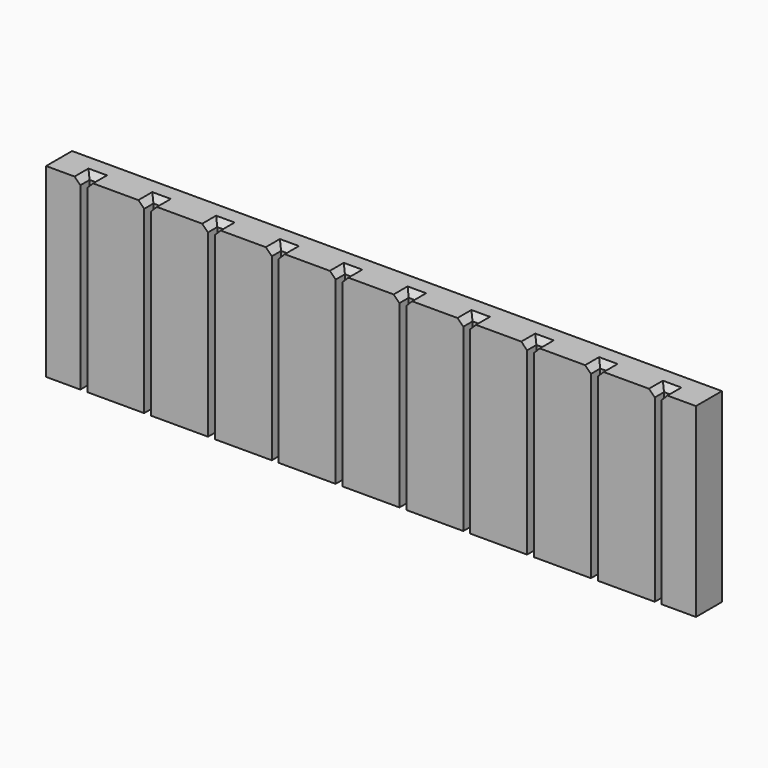
from build123d import *

# Parameters (mm, degrees)
SKETCH_W          = 177.8
SKETCH_H          = 50.8
PAD_DEPTH         = 8.89
CYLINDER_R        = 6.1976
CYLINDER_DEPTH    = 6.1976
CYLINDER001_R     = 6.1976
CYLINDER001_DEPTH = 6.1976
BOX_W             = 1.8923
BOX_H             = 50.8
BOX_DEPTH         = 3.175
BOX001_W          = 1.8923
BOX001_H          = 50.8
BOX001_DEPTH      = 3.175
BOX002_W          = 1.8923
BOX002_H          = 50.8
BOX002_DEPTH      = 3.175
BOX003_W          = 1.8923
BOX003_H          = 50.8
BOX003_DEPTH      = 3.175
BOX004_W          = 1.8923
BOX004_H          = 50.8
BOX004_DEPTH      = 3.175
BOX005_W          = 1.8923
BOX005_H          = 50.8
BOX005_DEPTH      = 3.175
BOX006_W          = 1.8923
BOX006_H          = 50.8
BOX006_DEPTH      = 3.175
BOX007_W          = 1.8923
BOX007_H          = 50.8
BOX007_DEPTH      = 3.175
BOX008_W          = 1.8923
BOX008_H          = 50.8
BOX008_DEPTH      = 3.175
BOX009_W          = 1.8923
BOX009_H          = 50.8
BOX009_DEPTH      = 3.175
CHAMFER_SIZE      = 1.5875
CHAMFER001_SIZE   = 1.5875
CHAMFER002_SIZE   = 1.5875
CHAMFER003_SIZE   = 1.65608
CHAMFER004_SIZE   = 1.5875
CHAMFER005_SIZE   = 1.5875
CHAMFER006_SIZE   = 1.5875
CHAMFER007_SIZE   = 1.5875
CHAMFER008_SIZE   = 1.5875
CHAMFER009_SIZE   = 1.5875


with BuildPart() as part:
    # Sketch → Pad (new body)
    with BuildSketch(Plane.XZ):
        Rectangle(SKETCH_W, SKETCH_H)
    extrude(amount=PAD_DEPTH)

    # Cylinder → Cylinder (join)
    with BuildSketch(Plane(origin=(50.8, 0, 0), x_dir=(1, 0, 0), z_dir=(0, 1, 0))):
        Circle(CYLINDER_R)
    extrude(amount=CYLINDER_DEPTH)

    # Cylinder001 → Cylinder001 (join)
    with BuildSketch(Plane(origin=(-50.8, 0, 0), x_dir=(1, 0, 0), z_dir=(0, 1, 0))):
        Circle(CYLINDER001_R)
    extrude(amount=CYLINDER001_DEPTH)

    # Box → Box (cut)
    with BuildSketch(Plane(origin=(-9.6774, -5.715, -25.4), x_dir=(1, 0, 0), z_dir=(0, -1, 0))):
        with Locations((0.94615, 25.4)):
            Rectangle(BOX_W, BOX_H)
    extrude(amount=BOX_DEPTH, mode=Mode.SUBTRACT)

    # Box001 → Box001 (cut)
    with BuildSketch(Plane(origin=(-27.1399, -5.715, -25.4), x_dir=(1, 0, 0), z_dir=(0, -1, 0))):
        with Locations((0.94615, 25.4)):
            Rectangle(BOX001_W, BOX001_H)
    extrude(amount=BOX001_DEPTH, mode=Mode.SUBTRACT)

    # Box002 → Box002 (cut)
    with BuildSketch(Plane(origin=(-44.6024, -5.715, -25.4), x_dir=(1, 0, 0), z_dir=(0, -1, 0))):
        with Locations((0.94615, 25.4)):
            Rectangle(BOX002_W, BOX002_H)
    extrude(amount=BOX002_DEPTH, mode=Mode.SUBTRACT)

    # Box003 → Box003 (cut)
    with BuildSketch(Plane(origin=(-62.0649, -5.715, -25.4), x_dir=(1, 0, 0), z_dir=(0, -1, 0))):
        with Locations((0.94615, 25.4)):
            Rectangle(BOX003_W, BOX003_H)
    extrude(amount=BOX003_DEPTH, mode=Mode.SUBTRACT)

    # Box004 → Box004 (cut)
    with BuildSketch(Plane(origin=(-79.5274, -5.715, -25.4), x_dir=(1, 0, 0), z_dir=(0, -1, 0))):
        with Locations((0.94615, 25.4)):
            Rectangle(BOX004_W, BOX004_H)
    extrude(amount=BOX004_DEPTH, mode=Mode.SUBTRACT)

    # Box005 → Box005 (cut)
    with BuildSketch(Plane(origin=(7.7851, -5.715, -25.4), x_dir=(1, 0, 0), z_dir=(0, -1, 0))):
        with Locations((0.94615, 25.4)):
            Rectangle(BOX005_W, BOX005_H)
    extrude(amount=BOX005_DEPTH, mode=Mode.SUBTRACT)

    # Box006 → Box006 (cut)
    with BuildSketch(Plane(origin=(25.2476, -5.715, -25.4), x_dir=(1, 0, 0), z_dir=(0, -1, 0))):
        with Locations((0.94615, 25.4)):
            Rectangle(BOX006_W, BOX006_H)
    extrude(amount=BOX006_DEPTH, mode=Mode.SUBTRACT)

    # Box007 → Box007 (cut)
    with BuildSketch(Plane(origin=(42.7101, -5.715, -25.4), x_dir=(1, 0, 0), z_dir=(0, -1, 0))):
        with Locations((0.94615, 25.4)):
            Rectangle(BOX007_W, BOX007_H)
    extrude(amount=BOX007_DEPTH, mode=Mode.SUBTRACT)

    # Box008 → Box008 (cut)
    with BuildSketch(Plane(origin=(60.1726, -5.715, -25.4), x_dir=(1, 0, 0), z_dir=(0, -1, 0))):
        with Locations((0.94615, 25.4)):
            Rectangle(BOX008_W, BOX008_H)
    extrude(amount=BOX008_DEPTH, mode=Mode.SUBTRACT)

    # Box009 → Box009 (cut)
    with BuildSketch(Plane(origin=(77.6351, -5.715, -25.4), x_dir=(1, 0, 0), z_dir=(0, -1, 0))):
        with Locations((0.94615, 25.4)):
            Rectangle(BOX009_W, BOX009_H)
    extrude(amount=BOX009_DEPTH, mode=Mode.SUBTRACT)

    # Chamfer
    chamfer_edges = [part.edges().sort_by_distance(p)[0] for p in [
        (-79.5274, -7.3025, 25.4),
        (-78.58125, -5.715, 25.4),
        (-77.6351, -7.3025, 25.4),
    ]]
    chamfer(chamfer_edges, length=CHAMFER_SIZE)

    # Chamfer001
    chamfer001_edges = [part.edges().sort_by_distance(p)[0] for p in [
        (-62.0649, -7.3025, 25.4),
        (-61.11875, -5.715, 25.4),
        (-60.1726, -7.3025, 25.4),
    ]]
    chamfer(chamfer001_edges, length=CHAMFER001_SIZE)

    # Chamfer002
    chamfer002_edges = [part.edges().sort_by_distance(p)[0] for p in [
        (-43.65625, -5.715, 25.4),
        (-44.6024, -7.3025, 25.4),
        (-42.7101, -7.3025, 25.4),
    ]]
    chamfer(chamfer002_edges, length=CHAMFER002_SIZE)

    # Chamfer003
    chamfer003_edges = [part.edges().sort_by_distance(p)[0] for p in [
        (-27.1399, -7.3025, 25.4),
        (-26.19375, -5.715, 25.4),
        (-25.2476, -7.3025, 25.4),
    ]]
    chamfer(chamfer003_edges, length=CHAMFER003_SIZE)

    # Chamfer004
    chamfer004_edges = [part.edges().sort_by_distance(p)[0] for p in [
        (-9.6774, -7.3025, 25.4),
        (-8.73125, -5.715, 25.4),
        (-7.7851, -7.3025, 25.4),
    ]]
    chamfer(chamfer004_edges, length=CHAMFER004_SIZE)

    # Chamfer005
    chamfer005_edges = [part.edges().sort_by_distance(p)[0] for p in [
        (7.7851, -7.3025, 25.4),
        (8.73125, -5.715, 25.4),
        (9.6774, -7.3025, 25.4),
    ]]
    chamfer(chamfer005_edges, length=CHAMFER005_SIZE)

    # Chamfer006
    chamfer006_edges = [part.edges().sort_by_distance(p)[0] for p in [
        (25.2476, -7.3025, 25.4),
        (26.19375, -5.715, 25.4),
        (27.1399, -7.3025, 25.4),
    ]]
    chamfer(chamfer006_edges, length=CHAMFER006_SIZE)

    # Chamfer007
    chamfer007_edges = [part.edges().sort_by_distance(p)[0] for p in [
        (42.7101, -7.3025, 25.4),
        (43.65625, -5.715, 25.4),
        (44.6024, -7.3025, 25.4),
    ]]
    chamfer(chamfer007_edges, length=CHAMFER007_SIZE)

    # Chamfer008
    chamfer008_edges = [part.edges().sort_by_distance(p)[0] for p in [
        (60.1726, -7.3025, 25.4),
        (61.11875, -5.715, 25.4),
        (62.0649, -7.3025, 25.4),
    ]]
    chamfer(chamfer008_edges, length=CHAMFER008_SIZE)

    # Chamfer009
    chamfer009_edges = [part.edges().sort_by_distance(p)[0] for p in [
        (77.6351, -7.3025, 25.4),
        (78.58125, -5.715, 25.4),
        (79.5274, -7.3025, 25.4),
    ]]
    chamfer(chamfer009_edges, length=CHAMFER009_SIZE)


solid = part.part
